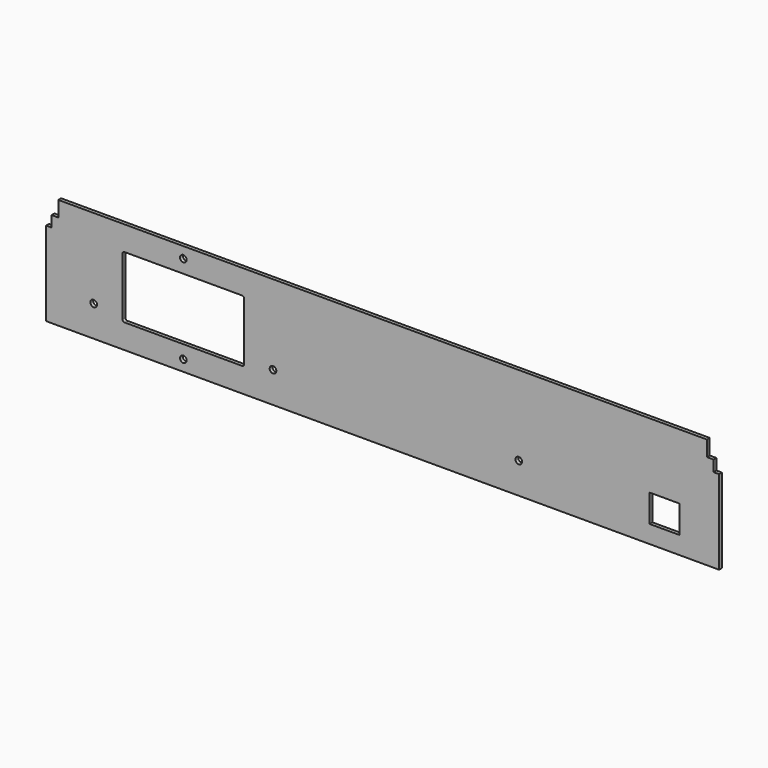
from build123d import *

# Parameters (mm, degrees)
BOX013_W                   = 13.5
BOX013_H                   = 12.5
BOX013_DEPTH               = 2
BOX015001005_W             = 55
BOX015001005_H             = 4
BOX015001005_DEPTH         = 28
FILLET001_R                = 1
CYLINDER012029001024_R     = 1.5
CYLINDER012029001024_DEPTH = 6
CYLINDER012029001025_R     = 1.5
CYLINDER012029001025_DEPTH = 6
CYLINDER012029001026_R     = 1.5
CYLINDER012029001026_DEPTH = 6
CYLINDER012029001028_R     = 1.5
CYLINDER012029001028_DEPTH = 6
BOX015001024_W             = 5.5
BOX015001024_H             = 7
BOX015001024_DEPTH         = 2
BOX015001023_W             = 2.5
BOX015001023_H             = 12
BOX015001023_DEPTH         = 2
BOX015001022_W             = 5.5
BOX015001022_H             = 7
BOX015001022_DEPTH         = 2
CYLINDER012029001027_R     = 1.5
CYLINDER012029001027_DEPTH = 6
BOX015001025_W             = 2.5
BOX015001025_H             = 12
BOX015001025_DEPTH         = 2
BOX012_W                   = 304
BOX012_H                   = 50
BOX012_DEPTH               = 1.6


with BuildPart() as cube002:
    # Box013 → Box013 (new body)
    with BuildSketch(Plane(origin=(-37.4, 270.2, 11), x_dir=(1, 0, 0), z_dir=(0, -1, 0))):
        with Locations((6.75, 6.25)):
            Rectangle(BOX013_W, BOX013_H)
    extrude(amount=BOX013_DEPTH)


with BuildPart() as fillet001:
    # Box015001005 → Box015001005 (new body)
    with BuildSketch(Plane(origin=(-275.5, 267, 14), x_dir=(1, 0, 0), z_dir=(0, 0, 1))):
        with Locations((27.5, 2)):
            Rectangle(BOX015001005_W, BOX015001005_H)
    extrude(amount=BOX015001005_DEPTH)

    # Fillet001
    fillet001_edges = [fillet001.edges().sort_by_distance(p)[0] for p in [
        (-275.5, 269, 42),
        (-275.5, 269, 14),
        (-220.5, 269, 42),
        (-220.5, 269, 14),
    ]]
    fillet(fillet001_edges, radius=FILLET001_R)


with BuildPart() as cylinder012029001024:
    # Cylinder012029001024 → Cylinder012029001024 (new body)
    with BuildSketch(Plane(origin=(-248, 271, 8), x_dir=(1, 0, 0), z_dir=(0, -1, 0))):
        Circle(CYLINDER012029001024_R)
    extrude(amount=CYLINDER012029001024_DEPTH)


with BuildPart() as cylinder012029001025:
    # Cylinder012029001025 → Cylinder012029001025 (new body)
    with BuildSketch(Plane(origin=(-248, 271, 48), x_dir=(1, 0, 0), z_dir=(0, -1, 0))):
        Circle(CYLINDER012029001025_R)
    extrude(amount=CYLINDER012029001025_DEPTH)


with BuildPart() as cylinder012029001026:
    # Cylinder012029001026 → Cylinder012029001026 (new body)
    with BuildSketch(Plane(origin=(-288.5, 271, 17), x_dir=(1, 0, 0), z_dir=(0, -1, 0))):
        Circle(CYLINDER012029001026_R)
    extrude(amount=CYLINDER012029001026_DEPTH)


with BuildPart() as cylinder012029001028:
    # Cylinder012029001028 → Cylinder012029001028 (new body)
    with BuildSketch(Plane(origin=(-96.5, 271, 17), x_dir=(1, 0, 0), z_dir=(0, -1, 0))):
        Circle(CYLINDER012029001028_R)
    extrude(amount=CYLINDER012029001028_DEPTH)


with BuildPart() as cube021:
    # Box015001024 → Box015001024 (new body)
    with BuildSketch(Plane(origin=(-310, 270.2, 46), x_dir=(1, 0, 0), z_dir=(0, -1, 0))):
        with Locations((2.75, 3.5)):
            Rectangle(BOX015001024_W, BOX015001024_H)
    extrude(amount=BOX015001024_DEPTH)


with BuildPart() as cube020:
    # Box015001023 → Box015001023 (new body)
    with BuildSketch(Plane(origin=(-8.5, 270.2, 41), x_dir=(1, 0, 0), z_dir=(0, -1, 0))):
        with Locations((1.25, 6)):
            Rectangle(BOX015001023_W, BOX015001023_H)
    extrude(amount=BOX015001023_DEPTH)


with BuildPart() as cube019:
    # Box015001022 → Box015001022 (new body)
    with BuildSketch(Plane(origin=(-11.5, 270.2, 46), x_dir=(1, 0, 0), z_dir=(0, -1, 0))):
        with Locations((2.75, 3.5)):
            Rectangle(BOX015001022_W, BOX015001022_H)
    extrude(amount=BOX015001022_DEPTH)


with BuildPart() as cylinder012029001027:
    # Cylinder012029001027 → Cylinder012029001027 (new body)
    with BuildSketch(Plane(origin=(-207.5, 271, 17), x_dir=(1, 0, 0), z_dir=(0, -1, 0))):
        Circle(CYLINDER012029001027_R)
    extrude(amount=CYLINDER012029001027_DEPTH)


with BuildPart() as fusion001012:
    # Box015001025 → Box015001025 (new body)
    with BuildSketch(Plane(origin=(-310, 270.2, 41), x_dir=(1, 0, 0), z_dir=(0, -1, 0))):
        with Locations((1.25, 6)):
            Rectangle(BOX015001025_W, BOX015001025_H)
    extrude(amount=BOX015001025_DEPTH)

    # Fusion001012: union Cube002, Fillet001, Cylinder012029001024, Cylinder012029001025, Cylinder012029001026, Cylinder012029001028, Cube021, Cube020, Cube019, Cylinder012029001027
    add(cube002.part)
    add(fillet001.part)
    add(cylinder012029001024.part)
    add(cylinder012029001025.part)
    add(cylinder012029001026.part)
    add(cylinder012029001028.part)
    add(cube021.part)
    add(cube020.part)
    add(cube019.part)
    add(cylinder012029001027.part)


with BuildPart() as cut003025:
    # Box012 → Box012 (new body)
    with BuildSketch(Plane(origin=(-310, 270, 3), x_dir=(1, 0, 0), z_dir=(0, -1, 0))):
        with Locations((152, 25)):
            Rectangle(BOX012_W, BOX012_H)
    extrude(amount=BOX012_DEPTH)

    # Cut003025: cut Fusion001012
    add(fusion001012.part, mode=Mode.SUBTRACT)


solid = cut003025.part
